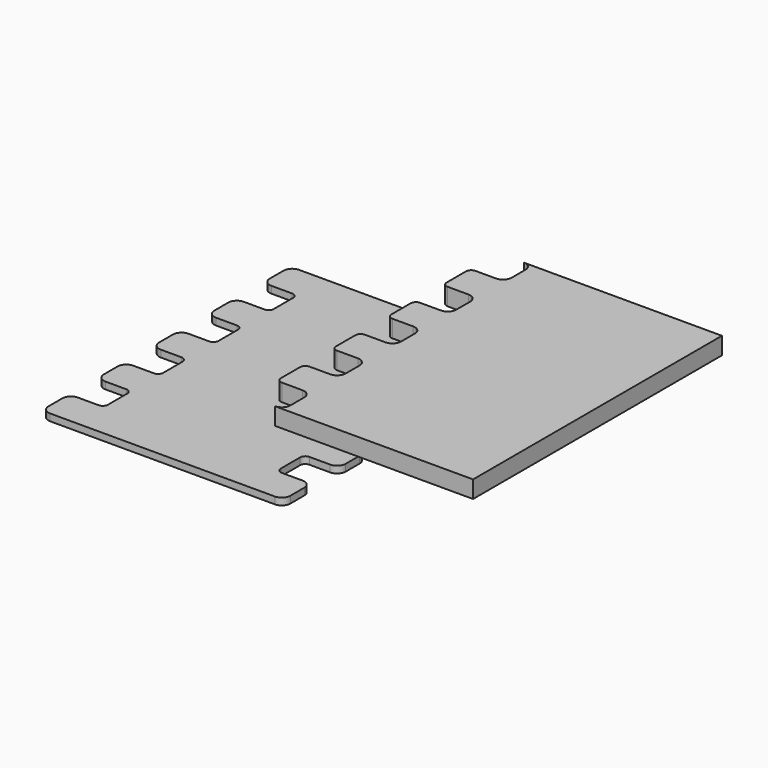
from build123d import *

# Parameters (mm, degrees)
F1_DEPTH = 4
F2_START = 40
F2_DEPTH = 10


with BuildPart() as f1:
    # F0 (on Top) → F1 (new body)
    with BuildSketch(Plane.XY):
        with BuildLine():
            Line((-15, 0), (0, 0))
            Line((0, 0), (100, 0))
            Line((100, 0), (115, 0))
            ThreePointArc((115, 0), (118.5355339059, 1.4644660941), (120, 5))
            Line((120, 5), (120, 15))
            ThreePointArc((120, 15), (118.5355339059, 18.5355339059), (115, 20))
            Line((115, 20), (103, 20))
            ThreePointArc((103, 20), (100.8786796564, 20.8786796564), (100, 23))
            Line((100, 23), (100, 37))
            ThreePointArc((100, 37), (100.8786796564, 39.1213203436), (103, 40))
            Line((103, 40), (115, 40))
            ThreePointArc((115, 40), (118.5355339059, 41.4644660941), (120, 45))
            Line((120, 45), (120, 55))
            ThreePointArc((120, 55), (118.5355339059, 58.5355339059), (115, 60))
            Line((115, 60), (103, 60))
            ThreePointArc((103, 60), (100.8786796564, 60.8786796564), (100, 63))
            Line((100, 63), (100, 77))
            ThreePointArc((100, 77), (100.8786796564, 79.1213203436), (103, 80))
            Line((103, 80), (115, 80))
            ThreePointArc((115, 80), (118.5355339059, 81.4644660941), (120, 85))
            Line((120, 85), (120, 95))
            ThreePointArc((120, 95), (118.5355339059, 98.5355339059), (115, 100))
            Line((115, 100), (103, 100))
            ThreePointArc((103, 100), (100.8786796564, 100.8786796564), (100, 103))
            Line((100, 103), (100, 117))
            ThreePointArc((100, 117), (100.8786796564, 119.1213203436), (103, 120))
            Line((103, 120), (115, 120))
            ThreePointArc((115, 120), (118.5355339059, 121.4644660941), (120, 125))
            Line((120, 125), (120, 135))
            ThreePointArc((120, 135), (118.5355339059, 138.5355339059), (115, 140))
            Line((115, 140), (103, 140))
            ThreePointArc((103, 140), (100.8786796564, 140.8786796564), (100, 143))
            Line((100, 143), (100, 157))
            ThreePointArc((100, 157), (100.8786796564, 159.1213203436), (103, 160))
            Line((103, 160), (115, 160))
            ThreePointArc((115, 160), (118.5355339059, 161.4644660941), (120, 165))
            Line((120, 165), (120, 175))
            ThreePointArc((120, 175), (118.5355339059, 178.5355339059), (115, 180))
            Line((115, 180), (100, 180))
            Line((100, 180), (0, 180))
            Line((0, 180), (-15, 180))
            ThreePointArc((-15, 180), (-18.5355339059, 178.5355339059), (-20, 175))
            Line((-20, 175), (-20, 165))
            ThreePointArc((-20, 165), (-18.5355339059, 161.4644660941), (-15, 160))
            Line((-15, 160), (-3, 160))
            ThreePointArc((-3, 160), (-0.8786796564, 159.1213203436), (0, 157))
            Line((0, 157), (0, 143))
            ThreePointArc((0, 143), (-0.8786796564, 140.8786796564), (-3, 140))
            Line((-3, 140), (-15, 140))
            ThreePointArc((-15, 140), (-18.5355339059, 138.5355339059), (-20, 135))
            Line((-20, 135), (-20, 125))
            ThreePointArc((-20, 125), (-18.5355339059, 121.4644660941), (-15, 120))
            Line((-15, 120), (-3, 120))
            ThreePointArc((-3, 120), (-0.8786796564, 119.1213203436), (0, 117))
            Line((0, 117), (0, 103))
            ThreePointArc((0, 103), (-0.8786796564, 100.8786796564), (-3, 100))
            Line((-3, 100), (-15, 100))
            ThreePointArc((-15, 100), (-18.5355339059, 98.5355339059), (-20, 95))
            Line((-20, 95), (-20, 85))
            ThreePointArc((-20, 85), (-18.5355339059, 81.4644660941), (-15, 80))
            Line((-15, 80), (-3, 80))
            ThreePointArc((-3, 80), (-0.8786796564, 79.1213203436), (0, 77))
            Line((0, 77), (0, 63))
            ThreePointArc((0, 63), (-0.8786796564, 60.8786796564), (-3, 60))
            Line((-3, 60), (-15, 60))
            ThreePointArc((-15, 60), (-18.5355339059, 58.5355339059), (-20, 55))
            Line((-20, 55), (-20, 45))
            ThreePointArc((-20, 45), (-18.5355339059, 41.4644660941), (-15, 40))
            Line((-15, 40), (-3, 40))
            ThreePointArc((-3, 40), (-0.8786796564, 39.1213203436), (0, 37))
            Line((0, 37), (0, 23))
            ThreePointArc((0, 23), (-0.8786796564, 20.8786796564), (-3, 20))
            Line((-3, 20), (-15, 20))
            ThreePointArc((-15, 20), (-18.5355339059, 18.5355339059), (-20, 15))
            Line((-20, 15), (-20, 5))
            ThreePointArc((-20, 5), (-18.5355339059, 1.4644660941), (-15, 0))
        make_face()
    extrude(amount=F1_DEPTH)


with BuildPart() as f2:
    # F0 (on Top) → F2 (new body)
    with BuildSketch(Plane.XY.offset(F2_START)):
        with BuildLine():
            ThreePointArc((120, 5), (118.5355339059, 1.4644660941), (115, 0))
            Line((115, 0), (229.6664118767, 0))
            Line((229.6664118767, 0), (229.6664118767, 180))
            Line((229.6664118767, 180), (115, 180))
            ThreePointArc((115, 180), (118.5355339059, 178.5355339059), (120, 175))
            Line((120, 175), (120, 165))
            ThreePointArc((120, 165), (118.5355339059, 161.4644660941), (115, 160))
            Line((115, 160), (103, 160))
            ThreePointArc((103, 160), (100.8786796564, 159.1213203436), (100, 157))
            Line((100, 157), (100, 143))
            ThreePointArc((100, 143), (100.8786796564, 140.8786796564), (103, 140))
            Line((103, 140), (115, 140))
            ThreePointArc((115, 140), (118.5355339059, 138.5355339059), (120, 135))
            Line((120, 135), (120, 125))
            ThreePointArc((120, 125), (118.5355339059, 121.4644660941), (115, 120))
            Line((115, 120), (103, 120))
            ThreePointArc((103, 120), (100.8786796564, 119.1213203436), (100, 117))
            Line((100, 117), (100, 103))
            ThreePointArc((100, 103), (100.8786796564, 100.8786796564), (103, 100))
            Line((103, 100), (115, 100))
            ThreePointArc((115, 100), (118.5355339059, 98.5355339059), (120, 95))
            Line((120, 95), (120, 85))
            ThreePointArc((120, 85), (118.5355339059, 81.4644660941), (115, 80))
            Line((115, 80), (103, 80))
            ThreePointArc((103, 80), (100.8786796564, 79.1213203436), (100, 77))
            Line((100, 77), (100, 63))
            ThreePointArc((100, 63), (100.8786796564, 60.8786796564), (103, 60))
            Line((103, 60), (115, 60))
            ThreePointArc((115, 60), (118.5355339059, 58.5355339059), (120, 55))
            Line((120, 55), (120, 45))
            ThreePointArc((120, 45), (118.5355339059, 41.4644660941), (115, 40))
            Line((115, 40), (103, 40))
            ThreePointArc((103, 40), (100.8786796564, 39.1213203436), (100, 37))
            Line((100, 37), (100, 23))
            ThreePointArc((100, 23), (100.8786796564, 20.8786796564), (103, 20))
            Line((103, 20), (115, 20))
            ThreePointArc((115, 20), (118.5355339059, 18.5355339059), (120, 15))
            Line((120, 15), (120, 5))
        make_face()
    extrude(amount=F2_DEPTH)


solid = Compound([f1.part, f2.part])
